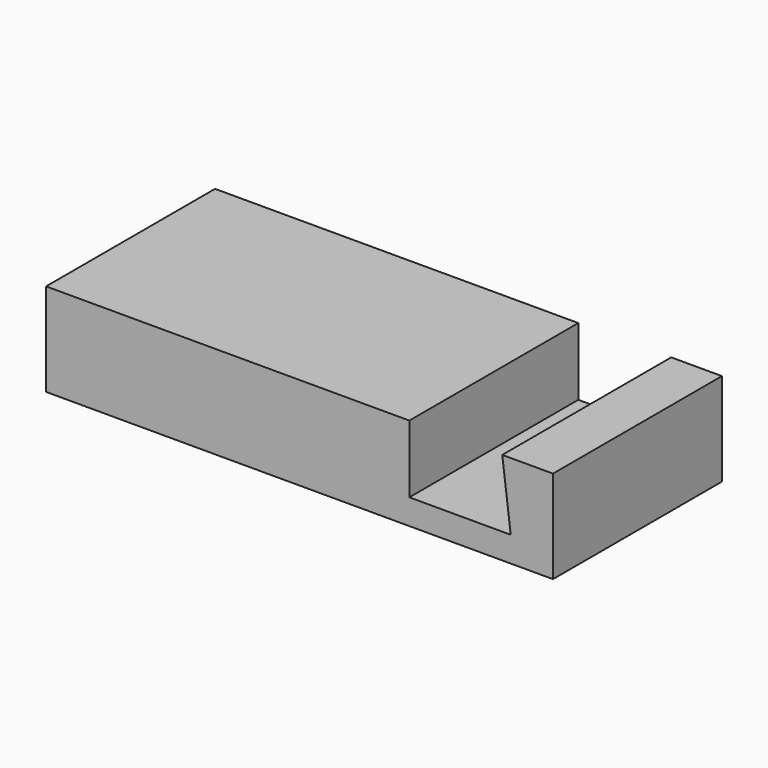
from build123d import *

# Parameters (mm, degrees)
EXTRUDE_DEPTH           = 25
EXTRUDE_PLACEMENT_ANGLE = 90


with BuildPart() as part:
    # Sketch → Extrude (new body)
    with BuildSketch(Plane.XY):
        Polygon((0, 11), (0, 0), (60, 0), (60, 11), (54, 11), (55, 3), (43, 3), (43, 11), align=None)
    extrude(amount=EXTRUDE_DEPTH)


with BuildPart() as part_1:
    # Extrude placement: moved
    add(part.part.rotate(Axis((0, 0, 0), (1, 0, 0)), EXTRUDE_PLACEMENT_ANGLE))


solid = part_1.part
